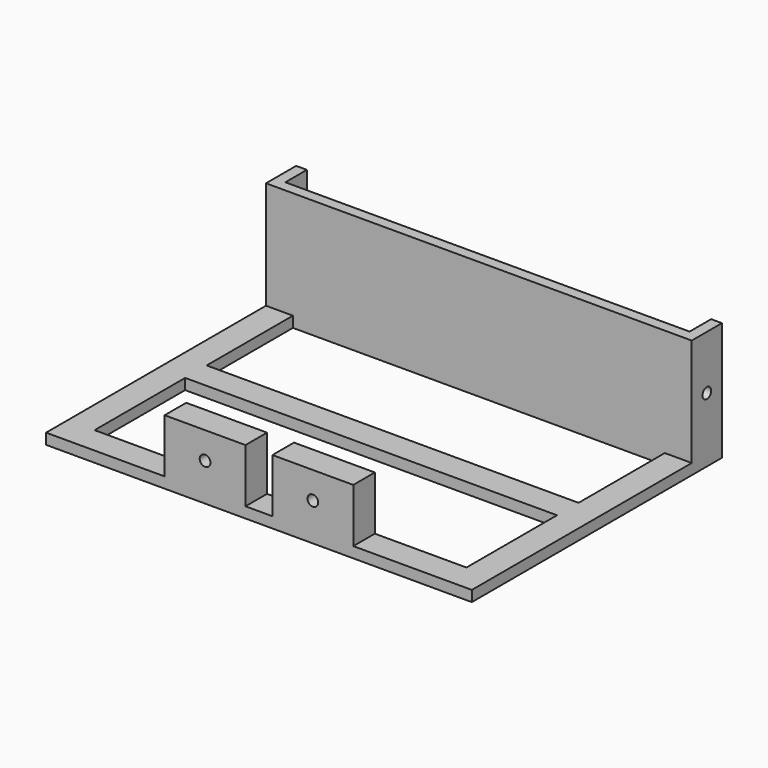
from build123d import *

# Parameters (mm, degrees)
F0_W      = 79
F0_H      = 58
F0_W_2    = 69
F0_H_2    = 46
F1_DEPTH  = 2
F2_W      = 15
F2_H      = 5
F3_DEPTH  = 10
F5_DEPTH  = 20
F6_W      = 75
F6_H      = 20
F7_DEPTH  = 5
F8_R      = 1
F9_DEPTH  = 5
F10_R     = 1
F11_DEPTH = 79.001
F12_W     = 5
F12_H     = 2
F13_DEPTH = 69
F14_ANGLE = 180


with BuildPart() as f1:
    # F0 (on Top) → F1 (new body)
    with BuildSketch(Plane.XY):
        with Locations((-4.5810023546, -13.9063113923)):
            Rectangle(F0_W, F0_H)
        with Locations((-4.5810023546, -12.9063113923)):
            Rectangle(F0_W_2, F0_H_2, mode=Mode.SUBTRACT)
    extrude(amount=F1_DEPTH)

    # F2 (on face) → F3 (join)
    with BuildSketch(Plane(origin=(0, 0, 0), x_dir=(1, 0, 0), z_dir=(0, 0, -1))):
        with Locations((5.4189976454, -12.5936886077)):
            Rectangle(F2_W, F2_H)
        with Locations((-14.5810023546, -12.5936886077)):
            Rectangle(F2_W, F2_H)
    extrude(amount=F3_DEPTH)

    # F4 (on face) → F5 (join)
    with BuildSketch(Plane(origin=(0, 0, 0), x_dir=(1, 0, 0), z_dir=(0, 0, -1))):
        Polygon((34.9189976454, 35.9063113923), (34.9189976454, 42.9063113923), (-44.0810023546, 42.9063113923), (-44.0810023546, 35.9063113923), (-39.0810023546, 35.9063113923), (29.9189976454, 35.9063113923), align=None)
    extrude(amount=F5_DEPTH)

    # F6 (on face) → F7 (cut)
    with BuildSketch(Plane.XZ.offset(42.9063113923)):
        with Locations((-4.5810023546, -10)):
            Rectangle(F6_W, F6_H)
    extrude(amount=-F7_DEPTH, mode=Mode.SUBTRACT)

    # F8 (on face) → F9 (cut, through all)
    with BuildSketch(Plane(origin=(0, 15.0936886077, 0), x_dir=(-1, 0, 0), z_dir=(0, 1, 0))):
        with Locations((-5.4189976454, -5)):
            Circle(F8_R)
        with Locations((14.5810023546, -5)):
            Circle(F8_R)
    extrude(amount=-F9_DEPTH, mode=Mode.SUBTRACT)

    # F10 (on face) → F11 (cut, through all)
    with BuildSketch(Plane(origin=(-44.0810023546, 0, 0), x_dir=(0, -1, 0), z_dir=(-1, 0, 0))):
        with Locations((39.4063113923, -10)):
            Circle(F10_R)
    extrude(amount=-F11_DEPTH, mode=Mode.SUBTRACT)

    # F12 (on face) → F13 (join, through all)
    with BuildSketch(Plane(origin=(29.9189976454, 0, 0), x_dir=(0, -1, 0), z_dir=(-1, 0, 0))):
        with Locations((13.4063113923, 1)):
            Rectangle(F12_W, F12_H)
    extrude(amount=F13_DEPTH)


with BuildPart() as f1_1:
    # F14: moved
    add(f1.part.rotate(Axis((-4.5810023546, -10.9063113923, 2), (1, 0, 0)), F14_ANGLE))


solid = f1_1.part
